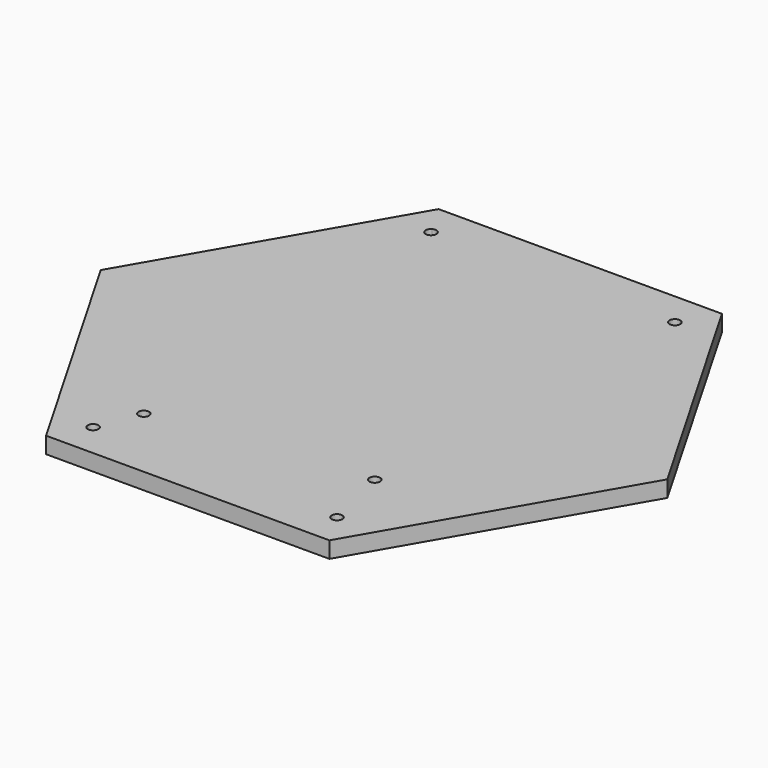
from build123d import *

# Parameters (mm, degrees)
F1_DEPTH = 5.08
F3_DEPTH = 25.4
F5_DEPTH = 25.4
F7_DEPTH = 25.4


with BuildPart() as f1:
    # F0 (on Top) → F1 (new body)
    with BuildSketch(Plane.XY):
        Polygon((43.9928, 76.197765), (-43.9928, 76.197765), (-87.9856, 0), (-43.9928, -76.197765), (43.9928, -76.197765), (87.9856, 0), align=None)
    extrude(amount=F1_DEPTH)

    # F2 (on face) → F3 (cut)
    with BuildSketch(Plane.XY.offset(5.08)):
        with BuildLine():
            ThreePointArc((-38.6969, 67.024997), (-38.6969, 64.165381), (-36.2204, 65.595189))
            ThreePointArc((-36.2204, 65.595189), (-37.0459, 67.024997), (-38.6969, 67.024997))
        make_face()
        with BuildLine():
            ThreePointArc((38.6969, 67.024997), (36.441592, 64.769689), (39.5224, 65.595189))
            ThreePointArc((39.5224, 65.595189), (39.301208, 66.420689), (38.6969, 67.024997))
        make_face()
        with BuildLine():
            ThreePointArc((38.6969, -67.024997), (39.301208, -66.420689), (39.5224, -65.595189))
            ThreePointArc((39.5224, -65.595189), (36.441592, -64.769689), (38.6969, -67.024997))
        make_face()
        with BuildLine():
            ThreePointArc((-38.6969, -67.024997), (-37.0459, -67.024997), (-36.2204, -65.595189))
            ThreePointArc((-36.2204, -65.595189), (-38.6969, -64.165381), (-38.6969, -67.024997))
        make_face()
    extrude(amount=-F3_DEPTH, mode=Mode.SUBTRACT)

    # F4 (on face) → F5 (cut)
    with BuildSketch(Plane.XY.offset(5.08)):
        with BuildLine():
            ThreePointArc((32.6898, -46.098765), (33.857233, -45.615198), (34.3408, -44.447765))
            ThreePointArc((34.3408, -44.447765), (31.522367, -43.280331), (32.6898, -46.098765))
        make_face()
    extrude(amount=-F5_DEPTH, mode=Mode.SUBTRACT)

    # F6 (on face) → F7 (cut)
    with BuildSketch(Plane.XY.offset(5.08)):
        with BuildLine():
            ThreePointArc((-31.0388, -52.385265), (-33.857233, -51.217831), (-32.6898, -54.036265))
            ThreePointArc((-32.6898, -54.036265), (-31.522367, -53.552698), (-31.0388, -52.385265))
        make_face()
    extrude(amount=-F7_DEPTH, mode=Mode.SUBTRACT)


solid = f1.part
